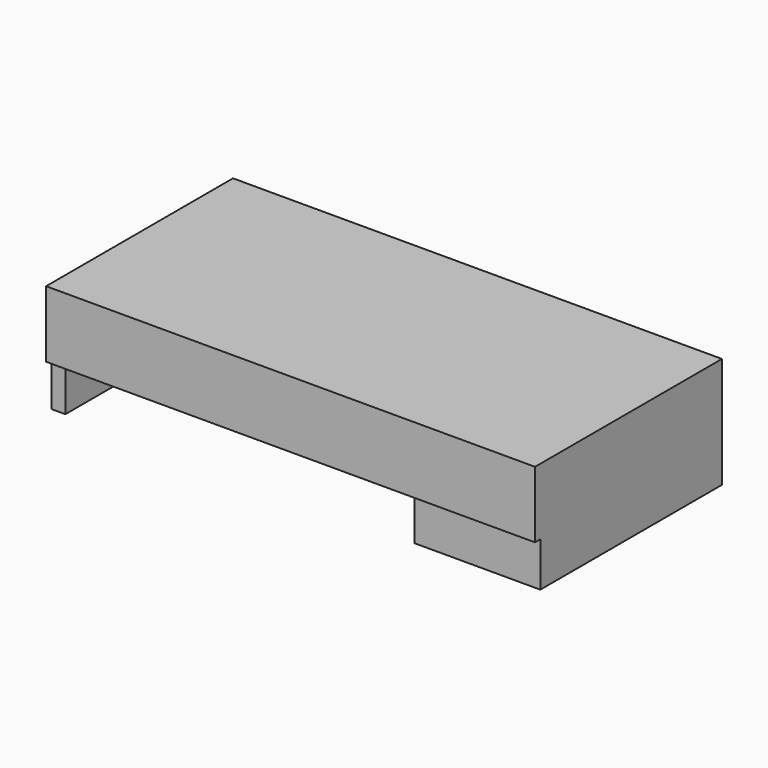
from build123d import *

# Parameters (mm, degrees)
F0_W     = 140
F0_H     = 31.75
F1_DEPTH = 66.9
F3_DEPTH = 12.7


with BuildPart() as f1:
    # F0 (on Front) → F1 (new body)
    with BuildSketch(Plane.XZ):
        with Locations((70, 15.875)):
            Rectangle(F0_W, F0_H)
    extrude(amount=F1_DEPTH)

    # F2 (on face) → F3 (cut)
    with BuildSketch(Plane(origin=(0, 0, 0), x_dir=(1, 0, 0), z_dir=(0, 0, -1))):
        Polygon((0, 66.9), (0, 65), (4, 65), (4, 5), (104, 5), (104, 65), (140, 65), (140, 66.9), align=None)
    extrude(amount=-F3_DEPTH, mode=Mode.SUBTRACT)


solid = f1.part
